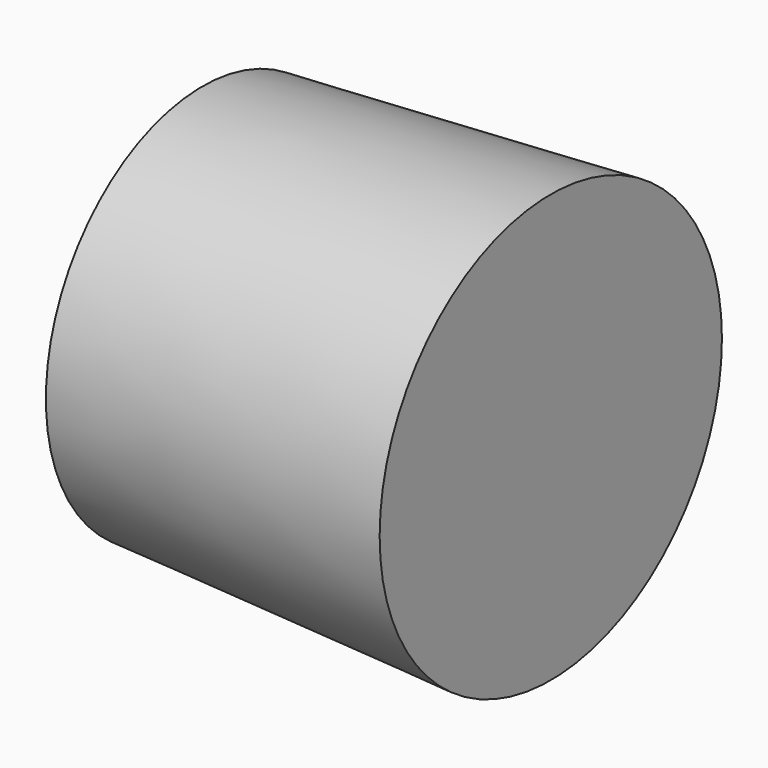
from build123d import *

# Parameters (mm, degrees)
F0_R     = 14.2653653137
F1_DEPTH = 25.4
F1_TAPER = -3


with BuildPart() as f1:
    # F0 (on Right) → F1 (new body)
    with BuildSketch(Plane.YZ):
        with Locations((-38.4148843586, 18.2735938579)):
            Circle(F0_R)
    extrude(amount=F1_DEPTH, taper=F1_TAPER)


solid = f1.part
